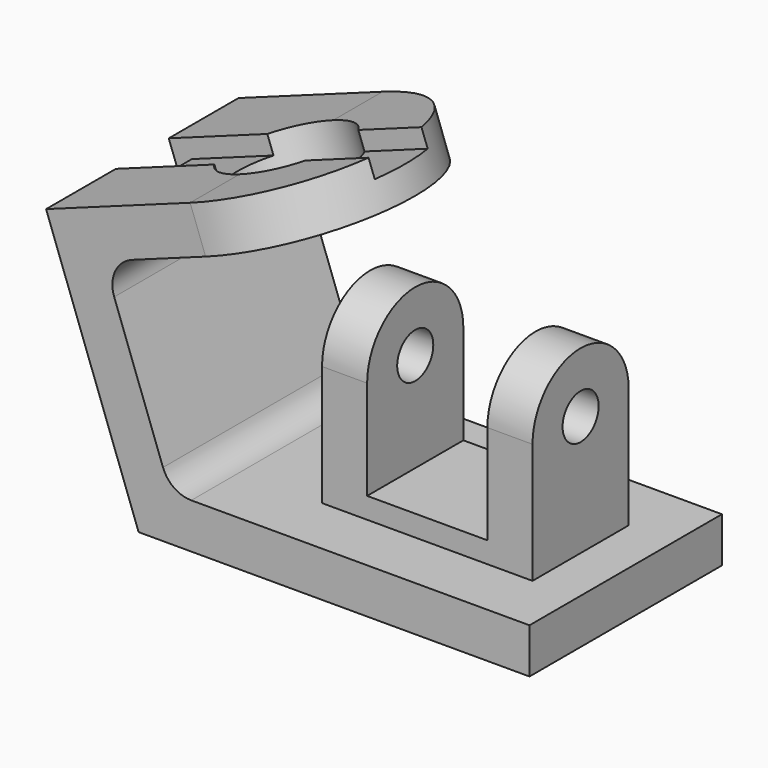
from build123d import *

# Parameters (mm, degrees)
F1_DEPTH  = 40
F3_DEPTH  = 15
F4_DEPTH  = 20
F6_DEPTH  = 15
F8_DEPTH  = 15
F9_R      = 7.5
F10_DEPTH = 70
F13_DEPTH = 6
F11_W     = 22
F11_H     = 56
F14_DEPTH = 6
F15_R     = 9.5
F16_DEPTH = 30
F15_R_2   = 19.5
F17_DEPTH = 12
F18_R     = 10


with BuildPart() as f1:
    # F0 (on Front) → F1 (new body, symmetric)
    with BuildSketch(Plane.XZ):
        Polygon((-30.7818128993, 84.5723358707), (0, 0), (130, 0), (130, 15), (115, 15), (45, 15), (10.5031130731, 15), (-11.5561214376, 75.6072487088), (22.2728129107, 87.9199738686), (17.1425107608, 102.0153631803), align=None)
    extrude(amount=F1_DEPTH, both=True)

    # F2 (on face) → F3 (join)
    with BuildSketch(Plane(origin=(-30.7818128993, 0, 84.5723358707), x_dir=(0.9396926208, 0, 0.3420201433), z_dir=(-0.3420201433, 0, 0.9396926208))):
        with BuildLine():
            Line((51, 40), (51, -40))
            ThreePointArc((51, -40), (91, 0), (51, 40))
        make_face()
    extrude(amount=-F3_DEPTH)

    # F0 (on Front) → F4 (join, symmetric)
    with BuildSketch(Plane.XZ):
        Polygon((-30.7818128993, 84.5723358707), (0, 0), (130, 0), (130, 15), (115, 15), (45, 15), (10.5031130731, 15), (-11.5561214376, 75.6072487088), (22.2728129107, 87.9199738686), (17.1425107608, 102.0153631803), align=None)
        Polygon((45, 15), (115, 15), (115, 55), (100, 55), (100, 22), (60, 22), (60, 55), (45, 55), align=None)
    extrude(amount=F4_DEPTH, both=True)

    # F5 (on face) → F6 (join)
    with BuildSketch(Plane.YZ.offset(115)):
        with BuildLine():
            Line((-20, 55), (20, 55))
            ThreePointArc((20, 55), (0, 75), (-20, 55))
        make_face()
    extrude(amount=-F6_DEPTH)

    # F7 (on face) → F8 (join)
    with BuildSketch(Plane.YZ.offset(60)):
        with BuildLine():
            Line((-20, 55), (20, 55))
            ThreePointArc((20, 55), (0, 75), (-20, 55))
        make_face()
    extrude(amount=-F8_DEPTH)

    # F9 (on face) → F10 (cut)
    with BuildSketch(Plane.YZ.offset(115)):
        with Locations((0, 55)):
            Circle(F9_R)
    extrude(amount=-F10_DEPTH, mode=Mode.SUBTRACT)

    # F12 (on face) → F13 (cut)
    with BuildSketch(Plane(origin=(-30.7818128993, 0, 84.5723358707), x_dir=(0.9396926208, 0, 0.3420201433), z_dir=(-0.3420201433, 0, 0.9396926208))):
        with BuildLine():
            Line((89.4577690461, 11), (0, 11))
            Line((0, 11), (0, -11))
            Line((0, -11), (89.4577690461, -11))
            ThreePointArc((89.4577690461, -11), (91, 0), (89.4577690461, 11))
        make_face()
    extrude(amount=-F13_DEPTH, mode=Mode.SUBTRACT)

    # F11 (on face) → F14 (cut)
    with BuildSketch(Plane(origin=(0, 0, 0), x_dir=(0, -1, 0), z_dir=(-0.9396926208, 0, -0.3420201433))):
        with Locations((0, 62)):
            Rectangle(F11_W, F11_H)
    extrude(amount=-F14_DEPTH, mode=Mode.SUBTRACT)

    # F15 (on face) → F16 (cut)
    with BuildSketch(Plane(origin=(-30.7818128993, 0, 84.5723358707), x_dir=(0.9396926208, 0, 0.3420201433), z_dir=(-0.3420201433, 0, 0.9396926208))):
        with Locations((51, 0)):
            Circle(F15_R)
    extrude(amount=-F16_DEPTH, mode=Mode.SUBTRACT)

    # F15 (on face) → F17 (cut)
    with BuildSketch(Plane(origin=(-30.7818128993, 0, 84.5723358707), x_dir=(0.9396926208, 0, 0.3420201433), z_dir=(-0.3420201433, 0, 0.9396926208))):
        with Locations((51, 0)):
            Circle(F15_R_2)
        with Locations((51, 0)):
            Circle(F15_R, mode=Mode.SUBTRACT)
    extrude(amount=-F17_DEPTH, mode=Mode.SUBTRACT)

    # F18
    f18_edges = [f1.edges().sort_by_distance(p)[0] for p in [
        (-11.556121, 0, 75.607249),
        (10.503113, 0, 15),
    ]]
    fillet(f18_edges, radius=F18_R)


solid = f1.part
